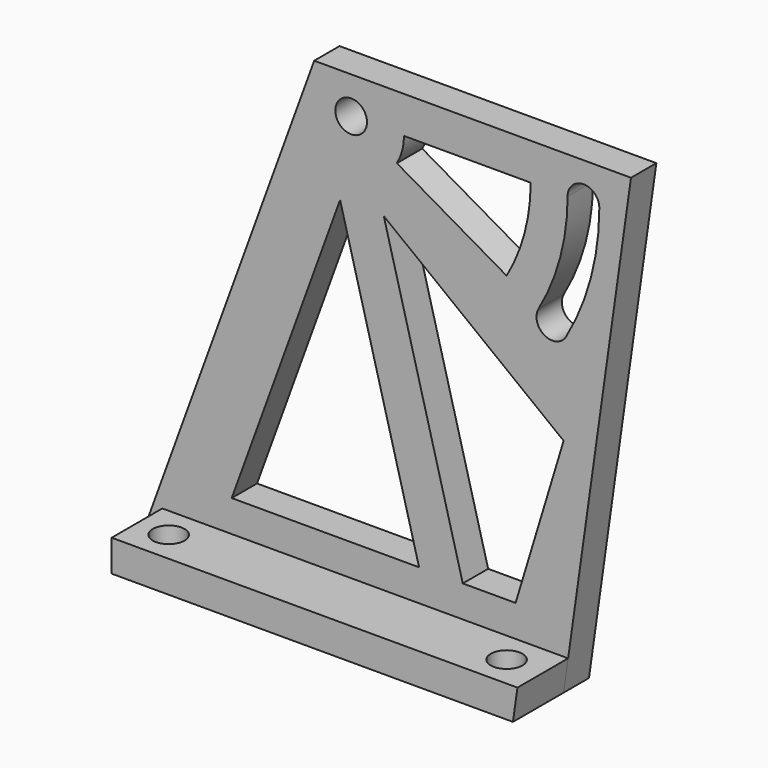
from build123d import *

# Parameters (mm, degrees)
F0_R     = 1.5
F1_DEPTH = 3
F3_DEPTH = 6
F4_R     = 1.5
F5_DEPTH = 25
F7_DEPTH = 25


with BuildPart() as f1:
    # F0 (on Front) → F1 (new body)
    with BuildSketch(Plane.XZ):
        Polygon((16.378661, 45), (0, 0), (40, 0), (46.378661, 45), align=None)
        with Locations((19.878661, 41.5)):
            Circle(F0_R, mode=Mode.SUBTRACT)
        with BuildLine():
            ThreePointArc((43.378661, 41.5), (42.577917, 35.417752), (40.230258, 29.75))
            ThreePointArc((40.230258, 29.75), (38.181219, 29.200962), (37.632181, 31.25))
            ThreePointArc((37.632181, 31.25), (39.68014, 36.19421), (40.378661, 41.5))
            ThreePointArc((40.378661, 41.5), (41.878661, 43), (43.378661, 41.5))
        make_face(mode=Mode.SUBTRACT)
    extrude(amount=F1_DEPTH)

    # F2 (on face) → F3 (join)
    with BuildSketch(Plane(origin=(0, 0, 0), x_dir=(-1, 0, 0), z_dir=(0, 1, 0))):
        Polygon((-40.425244, 3), (-40, 0), (-2, 0), (-2, 3), align=None)
    extrude(amount=F3_DEPTH)

    # F4 (on face) → F5 (cut)
    with BuildSketch(Plane(origin=(0, 0, 0), x_dir=(1, 0, 0), z_dir=(0, 0, -1))):
        with Locations((37, -3)):
            Circle(F4_R)
        with Locations((5, -3)):
            Circle(F4_R)
    extrude(amount=-F5_DEPTH, mode=Mode.SUBTRACT)

    # F6 (on face) → F7 (cut)
    with BuildSketch(Plane.XZ.offset(3)):
        Polygon((18.830264, 34.192898), (8.568888, 6), (26.311674, 6), align=None)
        Polygon((40, 21), (22.968705, 34.192898), (30.450115, 6), (35.450115, 6), align=None)
        with BuildLine():
            ThreePointArc((24.878661, 41.5), (24.70829, 40.205905), (24.208788, 39))
            Line((24.208788, 39), (34.601092, 33))
            ThreePointArc((34.601092, 33), (36.2994, 37.100076), (36.878661, 41.5))
            Line((36.878661, 41.5), (24.878661, 41.5))
        make_face()
    extrude(amount=-F7_DEPTH, mode=Mode.SUBTRACT)


with BuildPart() as f8_1:
    # F8: instance of F1
    add(f1.part.mirror(Plane(origin=(24.806781, -3, 21.611158), x_dir=(1, 0, 0), z_dir=(0, -1, 0))))


solid = f8_1.part
